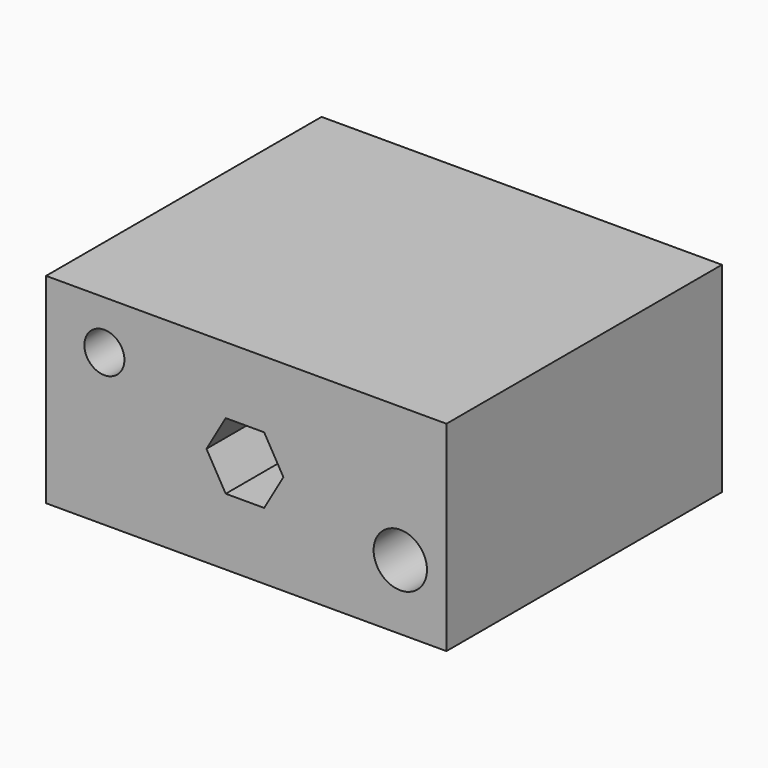
from build123d import *

# Parameters (mm, degrees)
F0_W     = 200
F0_H     = 100
F0_R     = 13.327869
F0_R_2   = 10
F1_DEPTH = 172


with BuildPart() as f1:
    # F0 (on Front) → F1 (new body)
    with BuildSketch(Plane.XZ):
        with Locations((100, -50)):
            Rectangle(F0_W, F0_H)
        with Locations((176.942766, -67.431971)):
            Circle(F0_R, mode=Mode.SUBTRACT)
        Polygon((80.127939, -50), (89.730337, -33.368159), (108.935133, -33.368159), (118.537531, -50), (108.935133, -66.631841), (89.730337, -66.631841), align=None, mode=Mode.SUBTRACT)
        with Locations((29.121823, -24.228896)):
            Circle(F0_R_2, mode=Mode.SUBTRACT)
    extrude(amount=F1_DEPTH)


solid = f1.part
